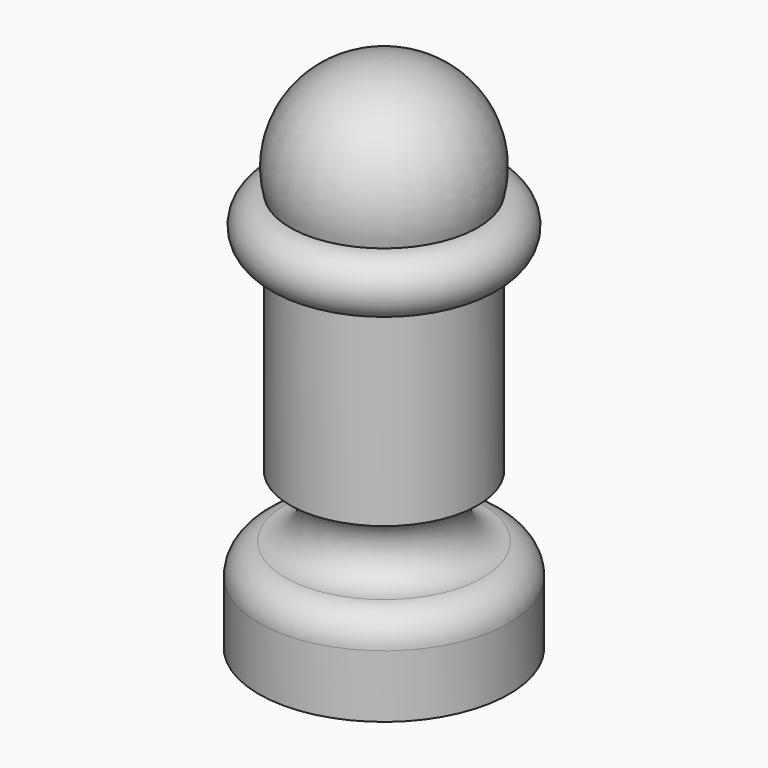
from build123d import *


with BuildPart() as f1:
    # F0 (on Right) → F1 (revolve)
    with BuildSketch(Plane.YZ):
        with BuildLine():
            Line((0, 26.166892), (0, 0))
            Line((0, 0), (6.35, 0))
            Line((6.35, 0), (6.35, 3.175))
            ThreePointArc((6.35, 3.175), (5.885032, 4.297532), (4.7625, 4.7625))
            Line((4.7625, 4.7625), (5.007925, 4.7625))
            ThreePointArc((5.007925, 4.7625), (3.425204, 6.226917), (4.7625, 7.918414))
            Line((4.7625, 7.918414), (4.7625, 17.443414))
            ThreePointArc((4.7625, 17.443414), (6.200793, 18.881707), (4.7625, 20.32))
            ThreePointArc((4.7625, 20.32), (3.854894, 24.443781), (0, 26.166892))
        make_face()
    revolve(axis=Axis((0, 0, 13.083446), (0, 0, -1)))


solid = f1.part
